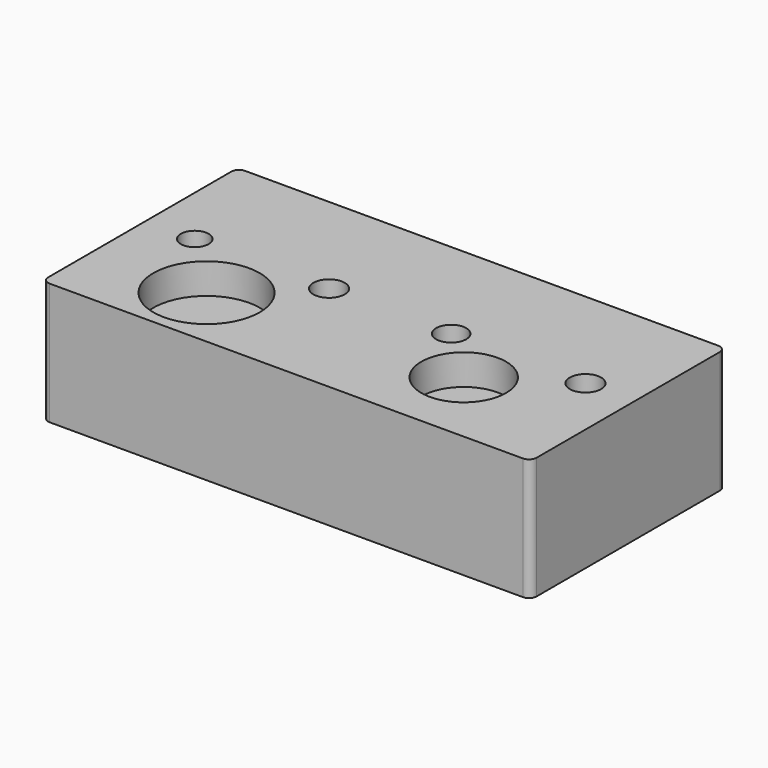
from build123d import *

# Parameters (mm, degrees)
F0_R     = 5.787016
F0_R_2   = 6.524432
F0_R_3   = 6.27749
F0_R_4   = 6.521669
F1_DEPTH = 50.8
F2_R     = 22.123373
F2_R_2   = 17.63113
F3_DEPTH = 12.7


with BuildPart() as f1:
    # F0 (on Top) → F1 (new body)
    with BuildSketch(Plane.XY):
        with BuildLine():
            ThreePointArc((-101.6, -50.8), (-100.670064, -53.045064), (-98.425, -53.975))
            Line((-98.425, -53.975), (98.425, -53.975))
            ThreePointArc((98.425, -53.975), (100.670064, -53.045064), (101.6, -50.8))
            Line((101.6, -50.8), (101.6, 44.45))
            ThreePointArc((101.6, 44.45), (100.670064, 46.695064), (98.425, 47.625))
            Line((98.425, 47.625), (-98.425, 47.625))
            ThreePointArc((-98.425, 47.625), (-100.670064, 46.695064), (-101.6, 44.45))
            Line((-101.6, 44.45), (-101.6, -50.8))
        make_face()
        with Locations((-81.28, 0)):
            Circle(F0_R, mode=Mode.SUBTRACT)
        with Locations((-25.4, 0)):
            Circle(F0_R_2, mode=Mode.SUBTRACT)
        with Locations((25.4, 0)):
            Circle(F0_R_3, mode=Mode.SUBTRACT)
        with Locations((81.28, 0)):
            Circle(F0_R_4, mode=Mode.SUBTRACT)
    extrude(amount=F1_DEPTH)

    # F2 (on face) → F3 (cut)
    with BuildSketch(Plane.XY.offset(50.8)):
        with Locations((-54.665826, -27.128531)):
            Circle(F2_R)
        with Locations((47.767427, -21.433132)):
            Circle(F2_R_2)
    extrude(amount=-F3_DEPTH, mode=Mode.SUBTRACT)


solid = f1.part
